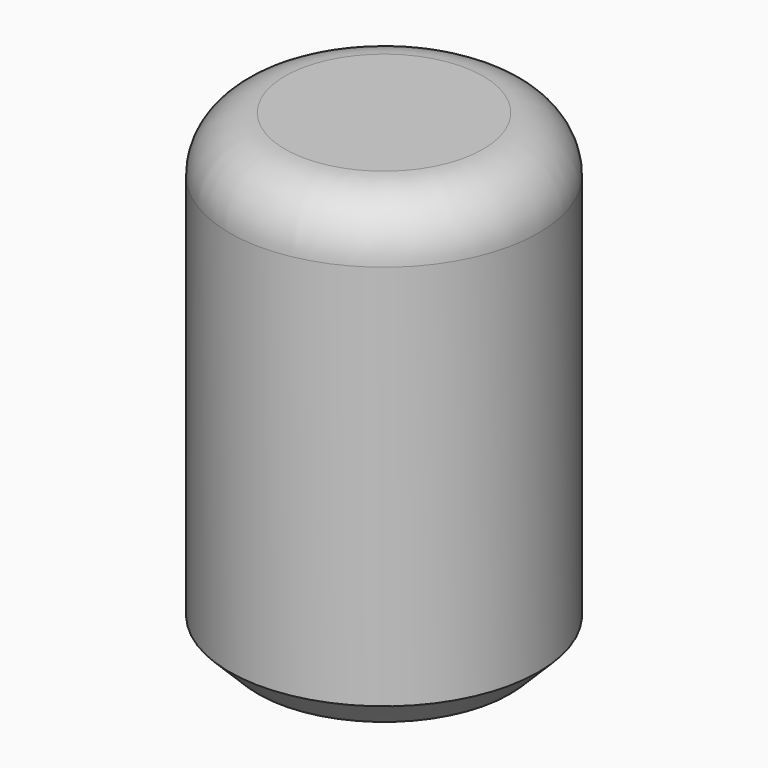
from build123d import *

# Parameters (mm, degrees)
F0_R     = 26.859981
F1_DEPTH = 81.788
F2_R     = 9.656854
F3_SIZE  = 5


with BuildPart() as f1:
    # F0 (on Top) → F1 (new body)
    with BuildSketch(Plane.XY):
        with Locations((-7.893364, 8.01296)):
            Circle(F0_R)
    extrude(amount=F1_DEPTH)

    # F2
    f2_edges = [f1.edges().sort_by_distance(p)[0] for p in [
        (-34.753345, 8.01296, 81.788),
    ]]
    fillet(f2_edges, radius=F2_R)

    # F3
    f3_edges = [f1.edges().sort_by_distance(p)[0] for p in [
        (-34.753345, 8.01296, 0),
    ]]
    chamfer(f3_edges, length=F3_SIZE)


solid = f1.part
